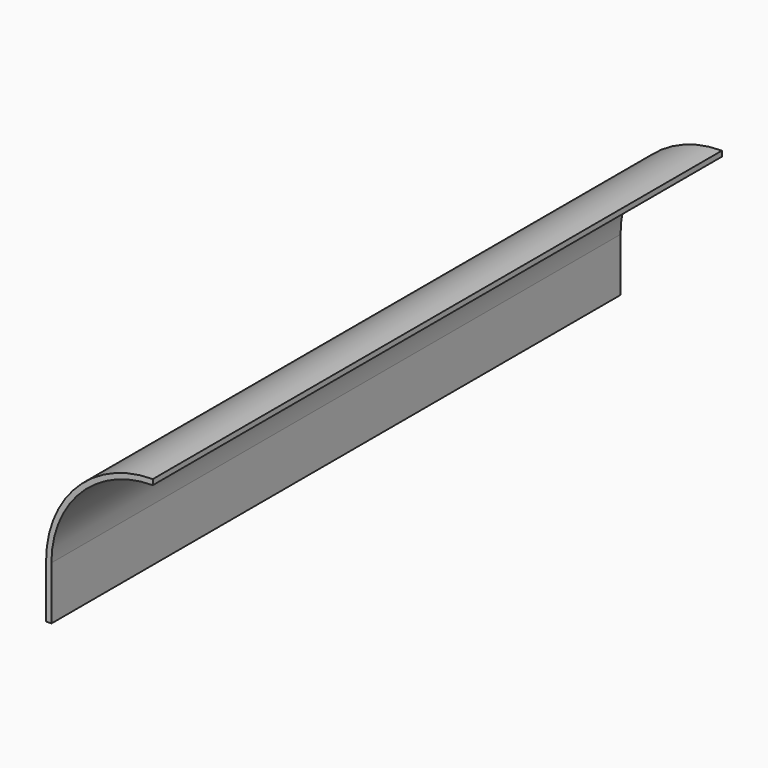
from build123d import *

# Parameters (mm, degrees)
F1_DEPTH = 400


with BuildPart() as f1:
    # F0 (on Front) → F1 (new body)
    with BuildSketch(Plane.XZ):
        with BuildLine():
            ThreePointArc((0, 60), (-42.426407, 42.426407), (-60, 0))
            Line((-60, 0), (-60, -30))
            Line((-60, -30), (-57, -30))
            Line((-57, -30), (-57, 0))
            ThreePointArc((-57, 0), (-40.305087, 40.305087), (0, 57))
            Line((0, 57), (0, 60))
        make_face()
    extrude(amount=F1_DEPTH)


solid = f1.part
